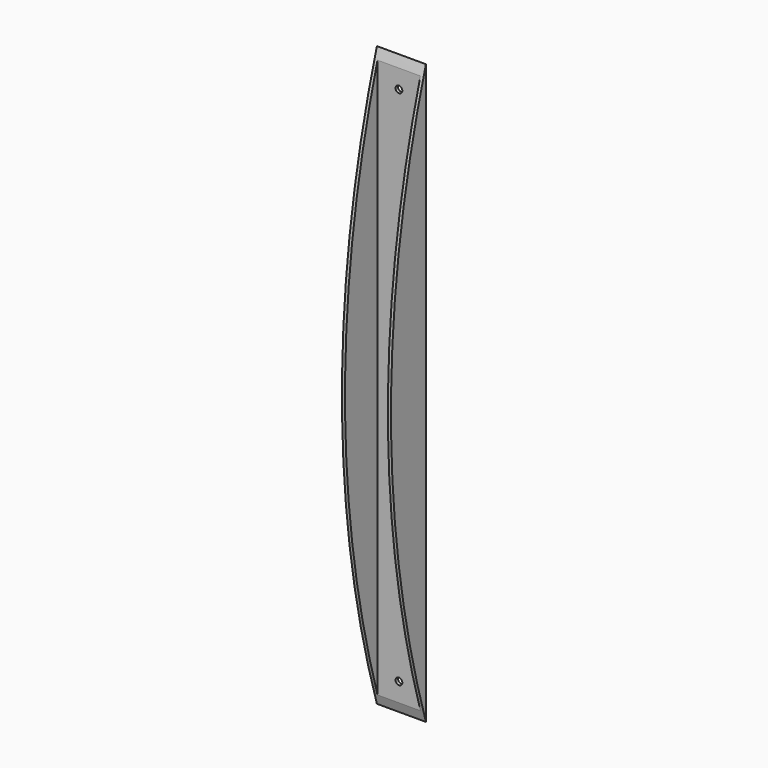
from build123d import *

# Parameters (mm, degrees)
F0_W     = 25.4
F0_H     = 300
F1_DEPTH = 25.4
F2_W     = 22.225
F2_H     = 22.225
F3_DEPTH = 300
F5_DEPTH = 25.4
F6_R     = 1.75
F7_DEPTH = 25


with BuildPart() as f1:
    # F0 (on Right) → F1 (new body)
    with BuildSketch(Plane.YZ):
        with Locations((12.7, 150)):
            Rectangle(F0_W, F0_H)
    extrude(amount=F1_DEPTH)

    # F2 (on face) → F3 (cut)
    with BuildSketch(Plane.XY.offset(300)):
        with Locations((12.7, 12.7)):
            Rectangle(F2_W, F2_H)
    extrude(amount=-F3_DEPTH, mode=Mode.SUBTRACT)

    # F4 (on face) → F5 (cut)
    with BuildSketch(Plane.YZ.offset(25.4)):
        with BuildLine():
            ThreePointArc((25.4, 0), (2.775952, 150), (25.4, 300))
            Line((25.4, 300), (0, 300))
            Line((0, 300), (0, 0))
            Line((0, 0), (25.4, 0))
        make_face()
    extrude(amount=-F5_DEPTH, mode=Mode.SUBTRACT)

    # F6 (on face) → F7 (cut)
    with BuildSketch(Plane(origin=(0, 25.4, 0), x_dir=(-1, 0, 0), z_dir=(0, 1, 0))):
        with Locations((-12.7, 285)):
            Circle(F6_R)
        with Locations((-12.7, 15)):
            Circle(F6_R)
    extrude(amount=-F7_DEPTH, mode=Mode.SUBTRACT)


solid = f1.part
